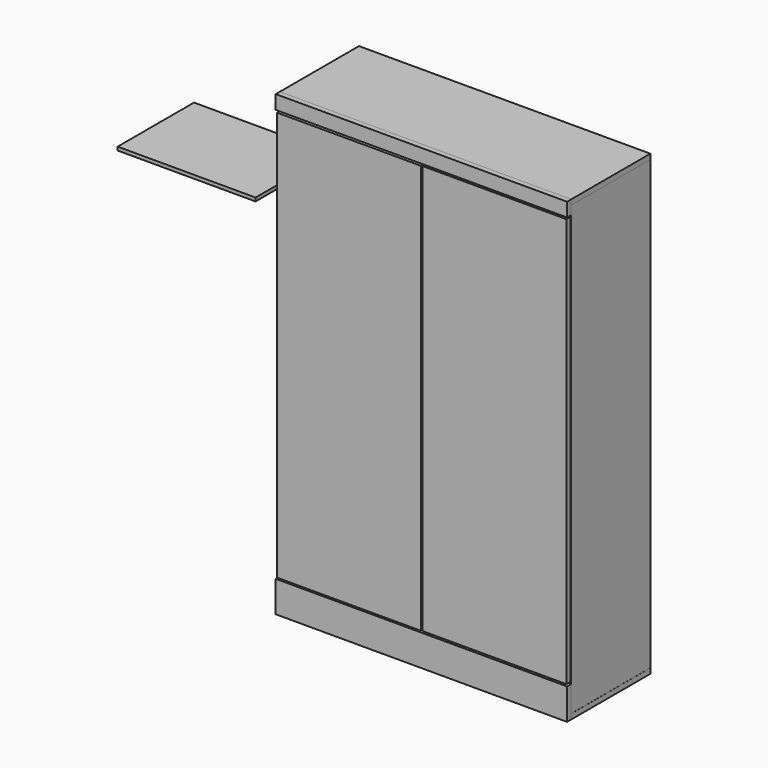
from build123d import *

# Parameters (mm, degrees)
F1_DEPTH = 361.95
F2_W     = 12.7
F2_H     = 1638.3
F3_DEPTH = 514.35
F4_W     = 19.05
F4_H     = 50.8
F4_H_2   = 114.3
F5_DEPTH = 1066.8
F6_W     = 527.05
F6_H     = 1498.6
F7_DEPTH = 19.05
F8_W     = 504.825
F8_H     = 12.7
F9_DEPTH = 349.25


with BuildPart() as f1:
    # F0 (on Front) → F1 (new body)
    with BuildSketch(Plane.XZ):
        Polygon((532.860258, 45.734084), (513.810258, 45.730643), (513.810258, -1141.908611), (513.810258, -1160.958611), (513.810258, -1592.565916), (532.860258, -1592.565916), align=None)
        Polygon((-514.889742, -1592.758611), (-533.939742, -1592.758611), (-533.939742, -1611.808611), (532.860258, -1611.808611), (532.860258, -1592.758611), align=None)
        Polygon((-514.889742, 45.541389), (-533.939742, 45.541389), (-533.939742, -1592.758611), (-514.889742, -1592.758611), (-514.889742, -1160.958611), (-514.889742, -1141.908611), align=None)
        Polygon((-533.939742, 64.591389), (-533.939742, 45.541389), (-10.064742, 45.636016), (513.810258, 45.730643), (513.810258, 45.734084), (532.860258, 45.734084), (532.860258, 64.784084), align=None)
        Polygon((-514.889742, -1592.758611), (-533.939742, -1592.758611), (-533.939742, -1611.808611), (532.860258, -1611.808611), (532.860258, -1592.758611), align=None)
    extrude(amount=-F1_DEPTH)


with BuildPart() as f3:
    # F2 (on Right) → F3 (new body, symmetric)
    with BuildSketch(Plane.YZ):
        with Locations((355.6, -773.111817)):
            Rectangle(F2_W, F2_H)
    extrude(amount=F3_DEPTH, both=True)


with BuildPart() as f5:
    # F4 (on face) → F5 (new body)
    with BuildSketch(Plane.YZ.offset(532.860258)):
        with Locations((-9.525, 39.384084)):
            Rectangle(F4_W, F4_H)
        with Locations((-9.525, -1554.658611)):
            Rectangle(F4_W, F4_H_2)
    extrude(amount=-F5_DEPTH)


with BuildPart() as f7:
    # F6 (on face) → F7 (new body)
    with BuildSketch(Plane.XZ):
        with Locations((-266.091704, -742.778577)):
            Rectangle(F6_W, F6_H)
        with Locations((266.60002, -741.689909)):
            Rectangle(F6_W, F6_H)
    extrude(amount=F7_DEPTH)


with BuildPart() as f9:
    # F8 (on Front) → F9 (new body)
    with BuildSketch(Plane.XZ):
        with Locations((-875.32979, -311.741516)):
            Rectangle(F8_W, F8_H)
    extrude(amount=-F9_DEPTH)


solid = Compound([f1.part, f3.part, f5.part, f7.part, f9.part])
